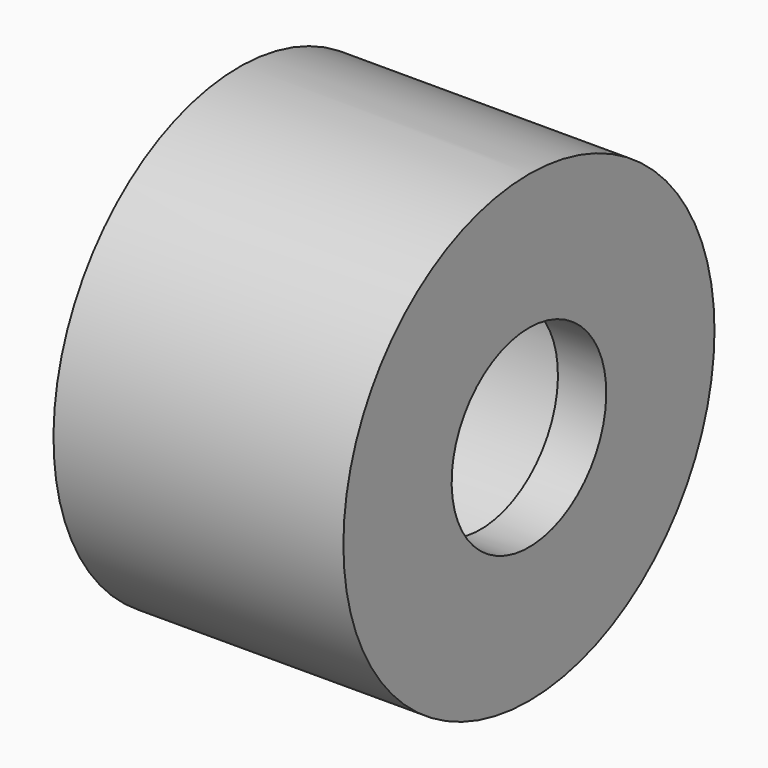
from build123d import *

# Parameters (mm, degrees)
CYLINDER024_R               = 5
CYLINDER024_DEPTH           = 2.5
CYLINDER019_R               = 12
CYLINDER019_DEPTH           = 2.5
CYLINDER027_R               = 8
CYLINDER027_DEPTH           = 12.5
CYLINDER026_R               = 12
CYLINDER026_DEPTH           = 12.5
CYLINDER026_PLACEMENT_ANGLE = 1
FUSION043_PLACEMENT_ANGLE   = 270


with BuildPart() as largeplughole:
    # Cylinder024 → Cylinder024 (new body)
    with BuildSketch(Plane.XY):
        Circle(CYLINDER024_R)
    extrude(amount=CYLINDER024_DEPTH)


with BuildPart() as largeplugbase001:
    # Cylinder019 → Cylinder019 (new body)
    with BuildSketch(Plane.XY):
        Circle(CYLINDER019_R)
    extrude(amount=CYLINDER019_DEPTH)

    # Cut008: cut LargePlugHole
    add(largeplughole.part, mode=Mode.SUBTRACT)


with BuildPart() as largeplugwallhole:
    # Cylinder027 → Cylinder027 (new body)
    with BuildSketch(Plane.XY.offset(2.5)):
        Circle(CYLINDER027_R)
    extrude(amount=CYLINDER027_DEPTH)


with BuildPart() as obj1:
    # Cylinder026 → Cylinder026 (new body)
    with BuildSketch(Plane.XY):
        Circle(CYLINDER026_R)
    extrude(amount=CYLINDER026_DEPTH)


with BuildPart() as obj1_1:
    # Cylinder026 placement: moved
    add(obj1.part.moved(Location((0, 0, 2.5))).rotate(Axis((0, 0, 2.5), (0, 0, 1)), CYLINDER026_PLACEMENT_ANGLE))

    # Cut007: cut LargePlugWallHole
    add(largeplugwallhole.part, mode=Mode.SUBTRACT)

    # Fusion043: union LargePlugBase001
    add(largeplugbase001.part)


with BuildPart() as obj1_2:
    # Fusion043 placement: moved
    add(obj1_1.part.moved(Location((-54, -50.5, 91.5))).rotate(Axis((-54, -50.5, 91.5), (0, 1, 0)), FUSION043_PLACEMENT_ANGLE))


solid = obj1_2.part
